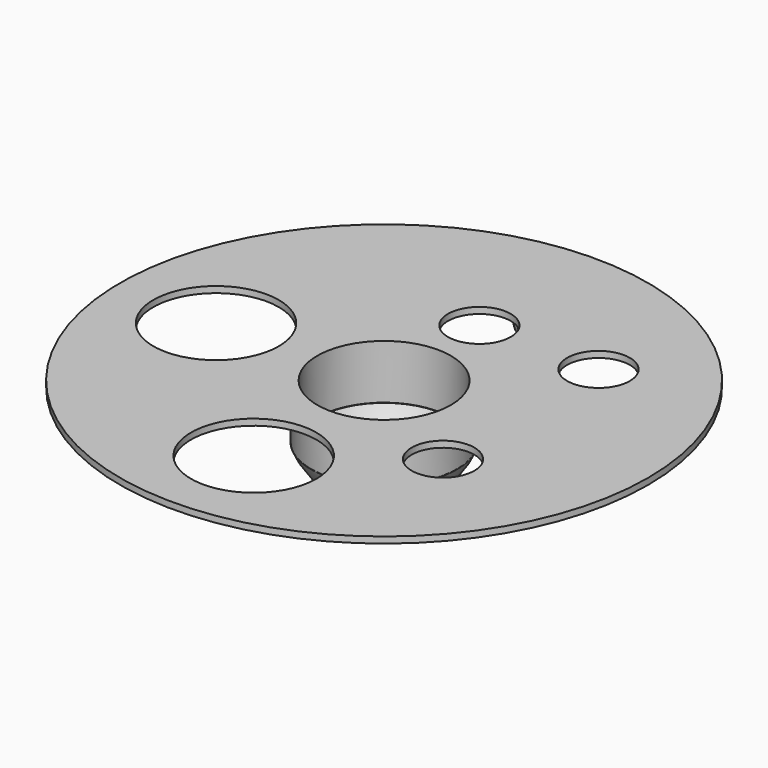
from build123d import *

# Parameters (mm, degrees)
CYLINDER014_R          = 10
CYLINDER014_DEPTH      = 10
CYLINDER018_R          = 10
CYLINDER018_DEPTH      = 10
CYLINDER016_R          = 5
CYLINDER016_DEPTH      = 10
CYLINDER017_R          = 5
CYLINDER017_DEPTH      = 10
CYLINDER013_R          = 5
CYLINDER013_DEPTH      = 10
CYLINDER015_R          = 10.65
CYLINDER015_DEPTH      = 10
CYLINDER019_R          = 42.1
CYLINDER019_DEPTH      = 1
CYLINDER021_R          = 2.88
CYLINDER021_DEPTH      = 7
CYLINDER012_R          = 2.88
CYLINDER012_DEPTH      = 10
CYLINDER020_R          = 2.88
CYLINDER020_DEPTH      = 7
CYLINDER011_R          = 2.88
CYLINDER011_DEPTH      = 10
CYLINDER004_R          = 7.6
CYLINDER004_DEPTH      = 10
BOX001_W               = 1.81
BOX001_H               = 10
BOX001_DEPTH           = 10
CUT006_PLACEMENT_ANGLE = 180
BOX_W                  = 1.81
BOX_H                  = 10
BOX_DEPTH              = 10
CUT005_PLACEMENT_ANGLE = 180
CYLINDER006_R          = 10
CYLINDER006_DEPTH      = 10
CYLINDER007_R          = 10
CYLINDER007_DEPTH      = 10
CYLINDER008_R          = 5
CYLINDER008_DEPTH      = 10
CYLINDER009_R          = 5
CYLINDER009_DEPTH      = 10
CYLINDER005_R          = 5
CYLINDER005_DEPTH      = 10
CYLINDER003_R          = 10.65
CYLINDER003_DEPTH      = 10
CYLINDER002_R          = 42.1
CYLINDER002_DEPTH      = 1
CYLINDER001_R          = 10.65
CYLINDER001_DEPTH      = 10
CYLINDER_R             = 11.65
CYLINDER_DEPTH         = 7.96


with BuildPart() as cilindro012:
    # Cylinder014 → Cylinder014 (new body)
    with BuildSketch(Plane(origin=(0, -26, 0), x_dir=(1, 0, 0), z_dir=(0, 0, 1))):
        Circle(CYLINDER014_R)
    extrude(amount=CYLINDER014_DEPTH)


with BuildPart() as cilindro016:
    # Cylinder018 → Cylinder018 (new body)
    with BuildSketch(Plane(origin=(-26, -1, 0), x_dir=(1, 0, 0), z_dir=(0, 0, 1))):
        Circle(CYLINDER018_R)
    extrude(amount=CYLINDER018_DEPTH)


with BuildPart() as cilindro014:
    # Cylinder016 → Cylinder016 (new body)
    with BuildSketch(Plane(origin=(19, -12, 0), x_dir=(1, 0, 0), z_dir=(0, 0, 1))):
        Circle(CYLINDER016_R)
    extrude(amount=CYLINDER016_DEPTH)


with BuildPart() as cilindro015:
    # Cylinder017 → Cylinder017 (new body)
    with BuildSketch(Plane(origin=(19, 19, 0), x_dir=(1, 0, 0), z_dir=(0, 0, 1))):
        Circle(CYLINDER017_R)
    extrude(amount=CYLINDER017_DEPTH)


with BuildPart() as cilindro011:
    # Cylinder013 → Cylinder013 (new body)
    with BuildSketch(Plane(origin=(0, 19, 0), x_dir=(1, 0, 0), z_dir=(0, 0, 1))):
        Circle(CYLINDER013_R)
    extrude(amount=CYLINDER013_DEPTH)


with BuildPart() as cilindro013:
    # Cylinder015 → Cylinder015 (new body)
    with BuildSketch(Plane.XY):
        Circle(CYLINDER015_R)
    extrude(amount=CYLINDER015_DEPTH)


with BuildPart() as obj1:
    # Cylinder019 → Cylinder019 (new body)
    with BuildSketch(Plane.XY.offset(5)):
        Circle(CYLINDER019_R)
    extrude(amount=CYLINDER019_DEPTH)

    # Cut019: cut Cilindro013
    add(cilindro013.part, mode=Mode.SUBTRACT)


with BuildPart() as obj1_1:
    # Cut019 placement: moved
    add(obj1.part.moved(Location((0, 0, -2))))

    # Cut015: cut Cilindro011
    add(cilindro011.part, mode=Mode.SUBTRACT)

    # Cut018: cut Cilindro015
    add(cilindro015.part, mode=Mode.SUBTRACT)

    # Cut016: cut Cilindro014
    add(cilindro014.part, mode=Mode.SUBTRACT)

    # Cut017: cut Cilindro016
    add(cilindro016.part, mode=Mode.SUBTRACT)

    # Cut020: cut Cilindro012
    add(cilindro012.part, mode=Mode.SUBTRACT)


with BuildPart() as cilindro019:
    # Cylinder021 → Cylinder021 (new body)
    with BuildSketch(Plane(origin=(24.95, 0, 4), x_dir=(1, 0, 0), z_dir=(0, 0, 1))):
        Circle(CYLINDER021_R)
    extrude(amount=CYLINDER021_DEPTH)


with BuildPart() as esfera004:
    # Sphere006 → Sphere006 (revolve)
    with BuildSketch(Plane.XZ):
        with BuildLine():
            ThreePointArc((0, -2.88), (2.88, 0), (0, 2.88))
            Line((0, 2.88), (0, -2.88))
        make_face()
    revolve(axis=Axis((0, 0, 0), (0, 0, 1)))


with BuildPart() as cut021:
    # Cylinder012 → Cylinder012 (new body)
    with BuildSketch(Plane.XY):
        Circle(CYLINDER012_R)
    extrude(amount=CYLINDER012_DEPTH)

    # Cut014: cut Esfera004
    add(esfera004.part, mode=Mode.SUBTRACT)


with BuildPart() as cut021_1:
    # Cut014 placement: moved
    add(cut021.part.moved(Location((24.95, 0, 1))))

    # Cut021: cut Cilindro019
    add(cilindro019.part, mode=Mode.SUBTRACT)


with BuildPart() as cilindro018:
    # Cylinder020 → Cylinder020 (new body)
    with BuildSketch(Plane(origin=(0, 31.1, 4), x_dir=(1, 0, 0), z_dir=(0, 0, 1))):
        Circle(CYLINDER020_R)
    extrude(amount=CYLINDER020_DEPTH)


with BuildPart() as esfera002:
    # Sphere004 → Sphere004 (revolve)
    with BuildSketch(Plane.XZ):
        with BuildLine():
            ThreePointArc((0, -2.88), (2.88, 0), (0, 2.88))
            Line((0, 2.88), (0, -2.88))
        make_face()
    revolve(axis=Axis((0, 0, 0), (0, 0, 1)))


with BuildPart() as cut022:
    # Cylinder011 → Cylinder011 (new body)
    with BuildSketch(Plane.XY):
        Circle(CYLINDER011_R)
    extrude(amount=CYLINDER011_DEPTH)

    # Cut013: cut Esfera002
    add(esfera002.part, mode=Mode.SUBTRACT)


with BuildPart() as cut022_1:
    # Cut013 placement: moved
    add(cut022.part.moved(Location((0, 31.1, 1))))

    # Cut022: cut Cilindro018
    add(cilindro018.part, mode=Mode.SUBTRACT)


with BuildPart() as cilindro002:
    # Cylinder004 → Cylinder004 (new body)
    with BuildSketch(Plane.XY.offset(-17)):
        Circle(CYLINDER004_R)
    extrude(amount=CYLINDER004_DEPTH)


with BuildPart() as sphere001:
    # Sphere001 → Sphere001 (revolve)
    with BuildSketch(Plane.XZ):
        with BuildLine():
            ThreePointArc((0, -11.55), (11.55, 0), (0, 11.55))
            Line((0, 11.55), (0, -11.55))
        make_face()
    revolve(axis=Axis((0, 0, 0), (0, 0, 1)))


with BuildPart() as base:
    # Sphere → Sphere (revolve)
    with BuildSketch(Plane.XZ):
        with BuildLine():
            ThreePointArc((0, -12.55), (7.036926, -10.391543), (11.65331, -4.658633))
            Line((11.65331, -4.658633), (0, -4.658633))
            Line((0, -4.658633), (0, -12.55))
        make_face()
    revolve(axis=Axis((0, 0, 0), (0, 0, 1)))

    # Cut: cut Sphere001
    add(sphere001.part, mode=Mode.SUBTRACT)

    # Cut003: cut Cilindro002
    add(cilindro002.part, mode=Mode.SUBTRACT)


with BuildPart() as cubo001:
    # Box001 → Box001 (new body)
    with BuildSketch(Plane(origin=(-0.91, -4, -1), x_dir=(1, 0, 0), z_dir=(0, 0, 1))):
        with Locations((0.905, 5)):
            Rectangle(BOX001_W, BOX001_H)
    extrude(amount=BOX001_DEPTH)


with BuildPart() as obj2:
    # Sphere005 → Sphere005 (revolve)
    with BuildSketch(Plane.XZ):
        with BuildLine():
            ThreePointArc((0, -3.38), (2.927166, -1.69), (2.927166, 1.69))
            Line((2.927166, 1.69), (0, 1.69))
            Line((0, 1.69), (0, -3.38))
        make_face()
    revolve(axis=Axis((0, 0, 0), (0, 0, 1)))

    # Cut007: cut Esfera002
    add(esfera002.part, mode=Mode.SUBTRACT)

    # Cut006: cut Cubo001
    add(cubo001.part, mode=Mode.SUBTRACT)


with BuildPart() as obj2_1:
    # Cut006 placement: moved
    add(obj2.part.moved(Location((0, 31.1, 0))).rotate(Axis((0, 31.1, 0), (1, 0, 0)), CUT006_PLACEMENT_ANGLE))


with BuildPart() as cubo:
    # Box → Box (new body)
    with BuildSketch(Plane(origin=(-0.91, -4, -1), x_dir=(1, 0, 0), z_dir=(0, 0, 1))):
        with Locations((0.905, 5)):
            Rectangle(BOX_W, BOX_H)
    extrude(amount=BOX_DEPTH)


with BuildPart() as esfera001:
    # Sphere003 → Sphere003 (revolve)
    with BuildSketch(Plane.XZ):
        with BuildLine():
            ThreePointArc((0, -2.88), (2.88, 0), (0, 2.88))
            Line((0, 2.88), (0, -2.88))
        make_face()
    revolve(axis=Axis((0, 0, 0), (0, 0, 1)))


with BuildPart() as obj3:
    # Sphere002 → Sphere002 (revolve)
    with BuildSketch(Plane.XZ):
        with BuildLine():
            ThreePointArc((0, -3.38), (2.927166, -1.69), (2.927166, 1.69))
            Line((2.927166, 1.69), (0, 1.69))
            Line((0, 1.69), (0, -3.38))
        make_face()
    revolve(axis=Axis((0, 0, 0), (0, 0, 1)))

    # Cut004: cut Esfera001
    add(esfera001.part, mode=Mode.SUBTRACT)

    # Cut005: cut Cubo
    add(cubo.part, mode=Mode.SUBTRACT)


with BuildPart() as obj3_1:
    # Cut005 placement: moved
    add(obj3.part.moved(Location((24.95, 0, 0))).rotate(Axis((24.95, 0, 0), (1, 0, 0)), CUT005_PLACEMENT_ANGLE))


with BuildPart() as cilindro004:
    # Cylinder006 → Cylinder006 (new body)
    with BuildSketch(Plane(origin=(0, -26, 0), x_dir=(1, 0, 0), z_dir=(0, 0, 1))):
        Circle(CYLINDER006_R)
    extrude(amount=CYLINDER006_DEPTH)


with BuildPart() as cilindro005:
    # Cylinder007 → Cylinder007 (new body)
    with BuildSketch(Plane(origin=(-26, -1, 0), x_dir=(1, 0, 0), z_dir=(0, 0, 1))):
        Circle(CYLINDER007_R)
    extrude(amount=CYLINDER007_DEPTH)


with BuildPart() as cilindro006:
    # Cylinder008 → Cylinder008 (new body)
    with BuildSketch(Plane(origin=(19, -12, 0), x_dir=(1, 0, 0), z_dir=(0, 0, 1))):
        Circle(CYLINDER008_R)
    extrude(amount=CYLINDER008_DEPTH)


with BuildPart() as cilindro007:
    # Cylinder009 → Cylinder009 (new body)
    with BuildSketch(Plane(origin=(19, 19, 0), x_dir=(1, 0, 0), z_dir=(0, 0, 1))):
        Circle(CYLINDER009_R)
    extrude(amount=CYLINDER009_DEPTH)


with BuildPart() as cilindro003:
    # Cylinder005 → Cylinder005 (new body)
    with BuildSketch(Plane(origin=(0, 19, 0), x_dir=(1, 0, 0), z_dir=(0, 0, 1))):
        Circle(CYLINDER005_R)
    extrude(amount=CYLINDER005_DEPTH)


with BuildPart() as cilindro001:
    # Cylinder003 → Cylinder003 (new body)
    with BuildSketch(Plane.XY):
        Circle(CYLINDER003_R)
    extrude(amount=CYLINDER003_DEPTH)


with BuildPart() as obj4:
    # Cylinder002 → Cylinder002 (new body)
    with BuildSketch(Plane.XY.offset(5)):
        Circle(CYLINDER002_R)
    extrude(amount=CYLINDER002_DEPTH)

    # Cut002: cut Cilindro001
    add(cilindro001.part, mode=Mode.SUBTRACT)


with BuildPart() as obj4_1:
    # Cut002 placement: moved
    add(obj4.part.moved(Location((0, 0, -2))))

    # Cut008: cut Cilindro003
    add(cilindro003.part, mode=Mode.SUBTRACT)

    # Cut009: cut Cilindro007
    add(cilindro007.part, mode=Mode.SUBTRACT)

    # Cut010: cut Cilindro006
    add(cilindro006.part, mode=Mode.SUBTRACT)

    # Cut011: cut Cilindro005
    add(cilindro005.part, mode=Mode.SUBTRACT)

    # Cut012: cut Cilindro004
    add(cilindro004.part, mode=Mode.SUBTRACT)


with BuildPart() as cylinder001:
    # Cylinder001 → Cylinder001 (new body)
    with BuildSketch(Plane.XY.offset(-5)):
        Circle(CYLINDER001_R)
    extrude(amount=CYLINDER001_DEPTH)


with BuildPart() as fusion001:
    # Cylinder → Cylinder (new body)
    with BuildSketch(Plane.XY.offset(-4.7)):
        Circle(CYLINDER_R)
    extrude(amount=CYLINDER_DEPTH)

    # Cut001: cut Cylinder001
    add(cylinder001.part, mode=Mode.SUBTRACT)

    # Fusion: union base, obj2, obj3, obj4
    add(base.part)
    add(obj2_1.part)
    add(obj3_1.part)
    add(obj4_1.part)

    # Fusion001: union Cut021, Cut022
    add(cut021_1.part)
    add(cut022_1.part)


solid = Compound([obj1_1.part, fusion001.part])
